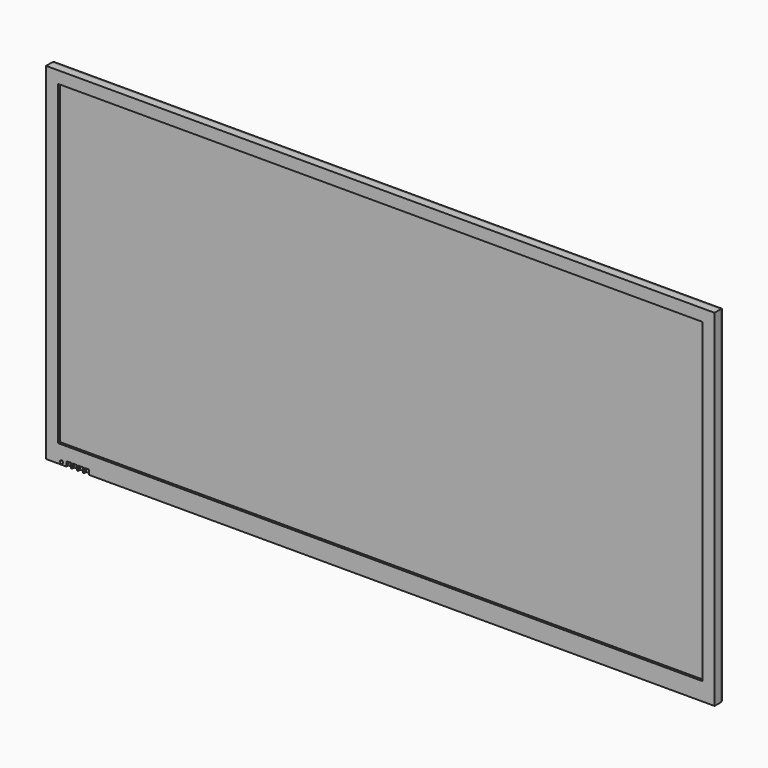
from build123d import *

# Parameters (mm, degrees)
F0_W     = 711.2
F0_H     = 368.3
F1_DEPTH = 38.1
F2_W     = 685.8
F2_H     = 336.55
F3_DEPTH = 2.54
F4_W     = 5.08
F4_H     = 5.08
F4_R     = 1.651
F5_DEPTH = 2.54
F6_DEPTH = 2.54
F7_SIZE  = 27.94
F8_R     = 5.08


with BuildPart() as f1:
    # F0 (on Front) → F1 (new body)
    with BuildSketch(Plane.XZ):
        with Locations((355.6, -184.15)):
            Rectangle(F0_W, F0_H)
    extrude(amount=F1_DEPTH)

    # F2 (on face) → F3 (cut)
    with BuildSketch(Plane.XZ.offset(38.1)):
        with Locations((355.6, -180.975)):
            Rectangle(F2_W, F2_H)
    extrude(amount=-F3_DEPTH, mode=Mode.SUBTRACT)

    # F4 (on face) → F5 (cut)
    with BuildSketch(Plane.XZ.offset(38.1)):
        with Locations((24.13, -365.76)):
            Rectangle(F4_W, F4_H)
        with Locations((43.18, -365.76)):
            Rectangle(F4_W, F4_H)
        with Locations((36.83, -365.76)):
            Rectangle(F4_W, F4_H)
        with Locations((30.48, -365.76)):
            Rectangle(F4_W, F4_H)
        with Locations((16.51, -365.76)):
            Circle(F4_R)
    extrude(amount=-F5_DEPTH, mode=Mode.SUBTRACT)

    # F4 (on face) → F6 (cut)
    with BuildSketch(Plane.XZ.offset(38.1)):
        with Locations((24.13, -365.76)):
            Rectangle(F4_W, F4_H)
        with Locations((43.18, -365.76)):
            Rectangle(F4_W, F4_H)
        with Locations((36.83, -365.76)):
            Rectangle(F4_W, F4_H)
        with Locations((30.48, -365.76)):
            Rectangle(F4_W, F4_H)
        with Locations((16.51, -365.76)):
            Circle(F4_R)
    extrude(amount=-F6_DEPTH, mode=Mode.SUBTRACT)

    # F7
    f7_edges = [f1.edges().sort_by_distance(p)[0] for p in [
        (355.6, 0, -368.3),
        (0, 0, -184.15),
        (711.2, 0, -184.15),
        (355.6, 0, 0),
    ]]
    chamfer(f7_edges, length=F7_SIZE)

    # F8
    f8_edges = [f1.edges().sort_by_distance(p)[0] for p in [
        (683.26, 0, -184.15),
        (355.6, 0, -340.36),
        (27.94, 0, -184.15),
        (355.6, 0, -27.94),
        (711.2, -27.94, -184.15),
        (355.6, -27.94, 0),
        (355.6, -27.94, -368.3),
        (0, -27.94, -184.15),
    ]]
    fillet(f8_edges, radius=F8_R)


solid = f1.part
